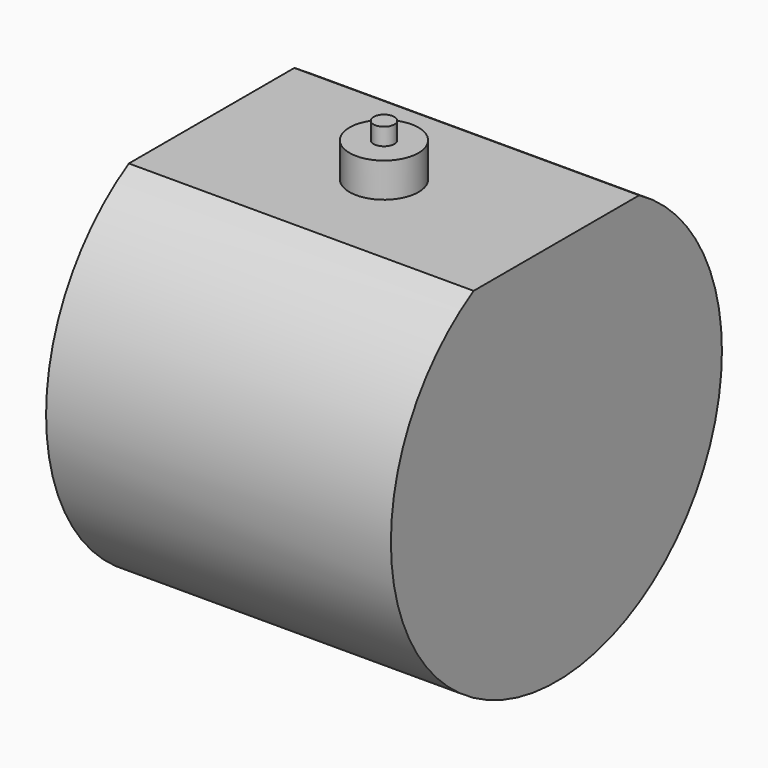
from build123d import *

# Parameters (mm, degrees)
F1_DEPTH = 127
F2_R     = 12.7
F3_DEPTH = 12.7
F4_R     = 3.81
F5_DEPTH = 6.35


with BuildPart() as f1:
    # F0 (on Right) → F1 (new body)
    with BuildSketch(Plane.YZ):
        with BuildLine():
            Line((16.657175, 68.595961), (-59.542825, 68.595961))
            ThreePointArc((-59.542825, 68.595961), (-21.442825, -73.595175), (16.657175, 68.595961))
        make_face()
    extrude(amount=F1_DEPTH)

    # F2 (on face) → F3 (join)
    with BuildSketch(Plane.XY.offset(68.595961)):
        with Locations((63.5, -21.442825)):
            Circle(F2_R)
    extrude(amount=F3_DEPTH)

    # F4 (on face) → F5 (join)
    with BuildSketch(Plane.XY.offset(81.295961)):
        with Locations((63.5, -21.442825)):
            Circle(F4_R)
    extrude(amount=F5_DEPTH)


solid = f1.part
